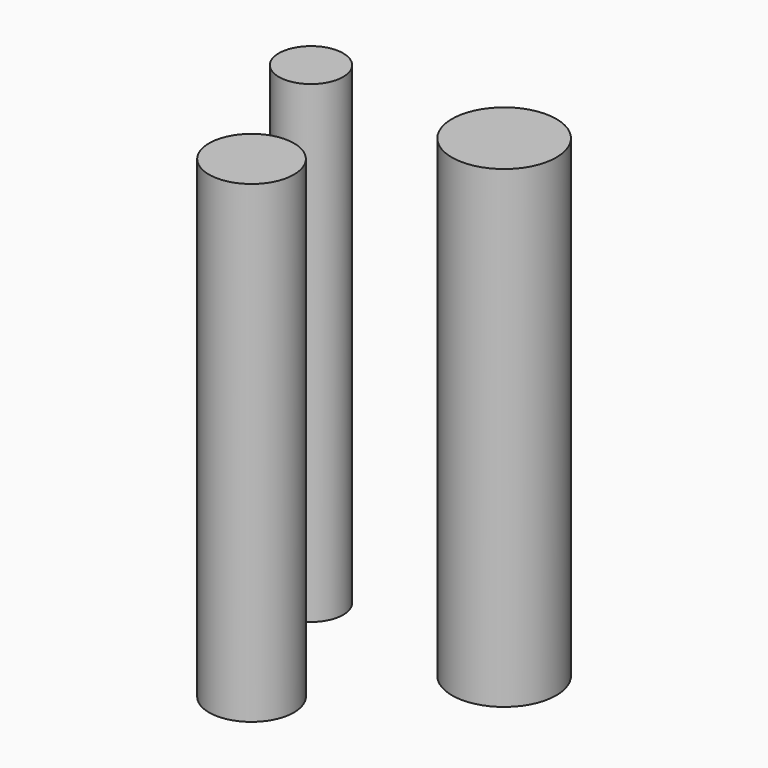
from build123d import *

# Parameters (mm, degrees)
F0_R     = 16.398708
F0_R_2   = 26.624277
F0_R_3   = 21.651777
F1_DEPTH = 241.554


with BuildPart() as f1:
    # F0 (on Top) → F1 (new body)
    with BuildSketch(Plane.XY):
        with Locations((-67.358635, 51.17381)):
            Circle(F0_R)
        with Locations((32.111377, 49.980644)):
            Circle(F0_R_2)
        with Locations((-35.298418, -26.834354)):
            Circle(F0_R_3)
    extrude(amount=-F1_DEPTH)


solid = f1.part
